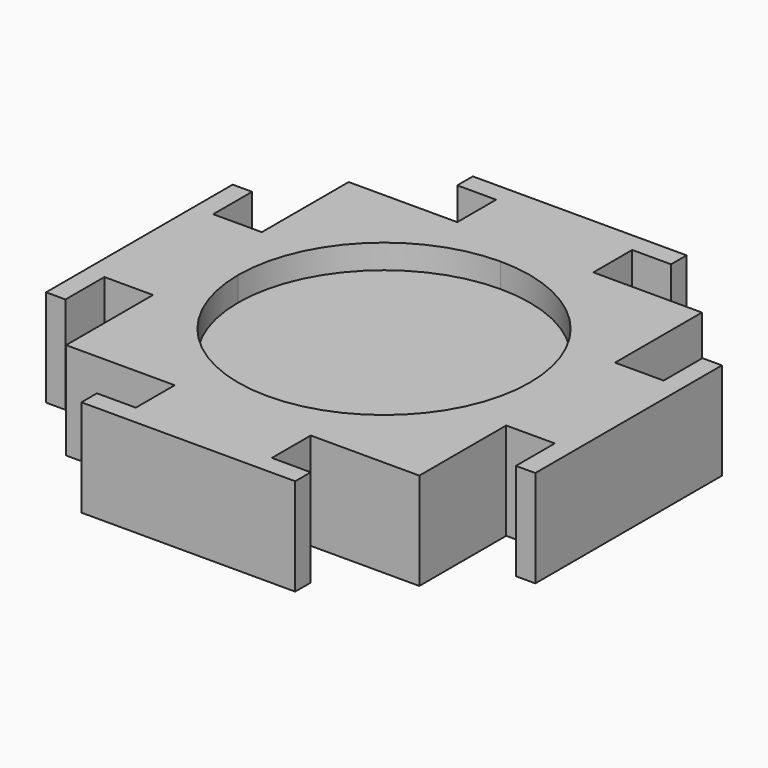
from build123d import *

# Parameters (mm, degrees)
F0_W     = 7
F0_H     = 5
F0_W_2   = 5
F0_H_2   = 7
F1_DEPTH = 10
F3_DEPTH = 2.5


with BuildPart() as f1:
    # F0 (on Top) → F1 (new body)
    with BuildSketch(Plane.XY):
        Polygon((0, 0), (0, 18.174312), (-7, 18.174312), (-18.174312, 18.174312), (-18.174312, 7), (-18.174312, 0), align=None)
        with Locations((-3.5, 20.674312)):
            Rectangle(F0_W, F0_H)
        Polygon((-7, 23.174312), (0, 23.174312), (0, 25.174312), (-11, 25.174312), (-11, 23.174312), align=None)
        with Locations((-20.674312, 3.5)):
            Rectangle(F0_W_2, F0_H_2)
        Polygon((-25.174312, 0), (-23.174312, 0), (-23.174312, 7), (-23.174312, 12), (-25.174312, 12), align=None)
    extrude(amount=-F1_DEPTH)

    # F2 (on face) → F3 (cut)
    with BuildSketch(Plane.XY):
        with BuildLine():
            Line((0, 0), (0, 15))
            ThreePointArc((0, 15), (-10.606602, 10.606602), (-15, 0))
            Line((-15, 0), (0, 0))
        make_face()
    extrude(amount=-F3_DEPTH, mode=Mode.SUBTRACT)

    # F4: F1 across plane


with BuildPart() as f1_1:
    add(f1.part)
    add(f1.part.mirror(Plane.YZ))

    # F5: F1 across plane


with BuildPart() as f1_2:
    add(f1_1.part)
    add(f1_1.part.mirror(Plane.XZ))


solid = f1_2.part
